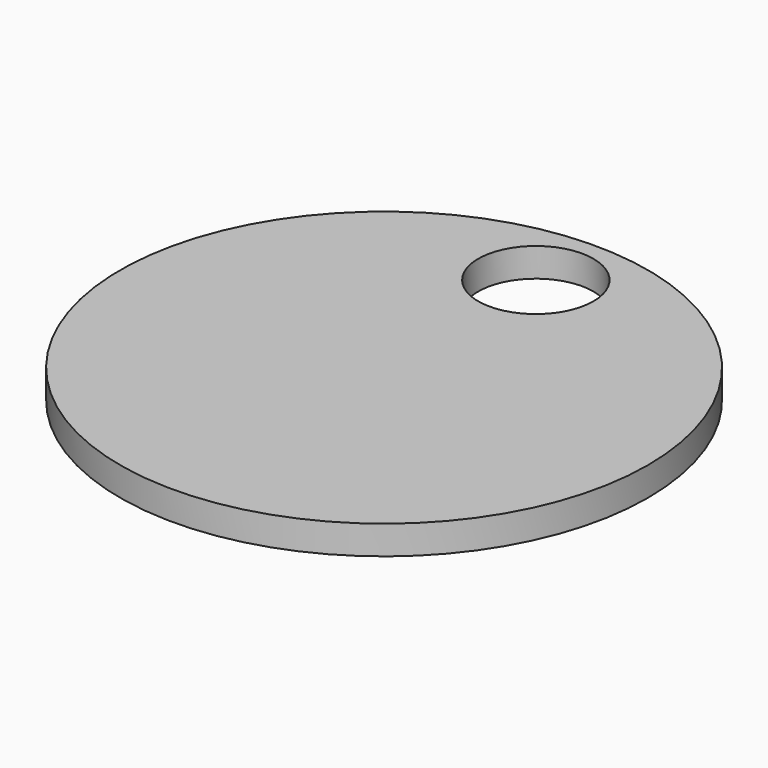
from build123d import *

# Parameters (mm, degrees)
F0_R     = 27.5
F1_DEPTH = 3
F2_R     = 6
F3_DEPTH = 3.001


with BuildPart() as f1:
    # F0 (on Top) → F1 (new body)
    with BuildSketch(Plane.XY):
        Circle(F0_R)
    extrude(amount=F1_DEPTH)

    # F2 (on face) → F3 (cut, through all)
    with BuildSketch(Plane.XY.offset(3)):
        with Locations((0, 19.762168)):
            Circle(F2_R)
    extrude(amount=-F3_DEPTH, mode=Mode.SUBTRACT)


solid = f1.part
